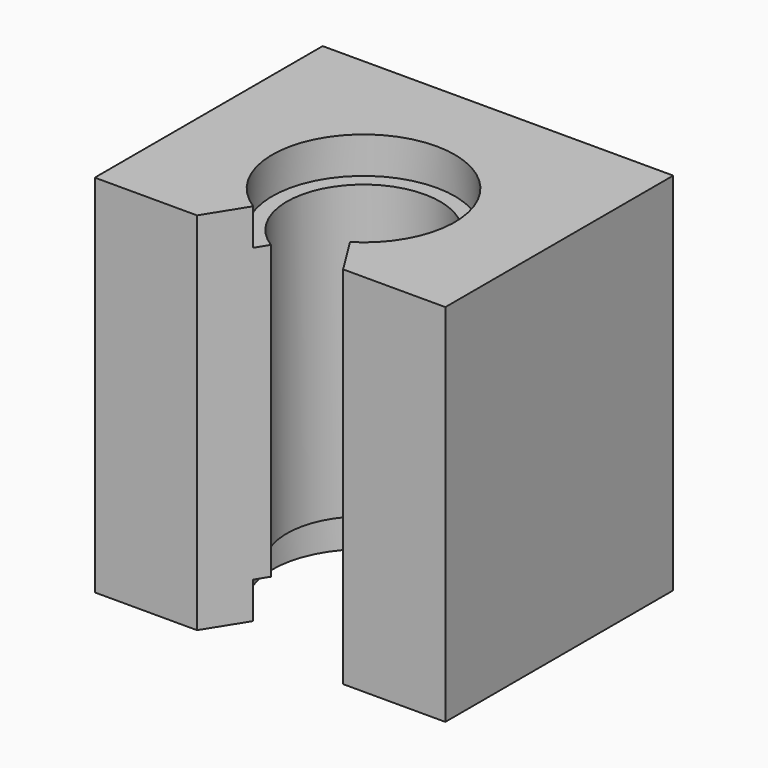
from build123d import *

# Parameters (mm, degrees)
SKETCH_W        = 48
SKETCH_H        = 39
PAD_DEPTH       = 50
SKETCH001_R     = 10.5
POCKET_DEPTH    = 51
SKETCH002_R     = 12.5
POCKET001_DEPTH = 5
SKETCH003_R     = 12.5
POCKET002_DEPTH = 5
POCKET003_DEPTH = 51
SKETCH005_R     = 2.5
POCKET004_DEPTH = 20


with BuildPart() as part:
    # Sketch → Pad (new body)
    with BuildSketch(Plane.XY):
        with Locations((24, 19.5)):
            Rectangle(SKETCH_W, SKETCH_H)
    extrude(amount=PAD_DEPTH)

    # Sketch001 → Pocket (cut)
    with BuildSketch(Plane.XY.offset(50)):
        with Locations((24, 16)):
            Circle(SKETCH001_R)
    extrude(amount=-POCKET_DEPTH, mode=Mode.SUBTRACT)

    # Sketch002 → Pocket001 (cut)
    with BuildSketch(Plane.XY.offset(50)):
        with Locations((24, 16)):
            Circle(SKETCH002_R)
    extrude(amount=-POCKET001_DEPTH, mode=Mode.SUBTRACT)

    # Sketch003 → Pocket002 (cut)
    with BuildSketch(Plane(origin=(0, 0, 0), x_dir=(1, 0, 0), z_dir=(0, 0, -1))):
        with Locations((24, -16)):
            Circle(SKETCH003_R)
    extrude(amount=-POCKET002_DEPTH, mode=Mode.SUBTRACT)

    # Sketch004 → Pocket003 (cut)
    with BuildSketch(Plane.XY.offset(50)):
        Polygon((14, 0), (24, 16), (34, 0), align=None)
    extrude(amount=-POCKET003_DEPTH, mode=Mode.SUBTRACT)

    # Sketch005 → Pocket004 (cut)
    with BuildSketch(Plane(origin=(0, 39, 0), x_dir=(-1, 0, 0), z_dir=(0, 1, 0))):
        with Locations((-41.5, 42.5)):
            Circle(SKETCH005_R)
        with Locations((-6.5, 42.5)):
            Circle(SKETCH005_R)
        with Locations((-41.5, 7.5)):
            Circle(SKETCH005_R)
        with Locations((-6.5, 7.5)):
            Circle(SKETCH005_R)
    extrude(amount=-POCKET004_DEPTH, mode=Mode.SUBTRACT)


solid = part.part
